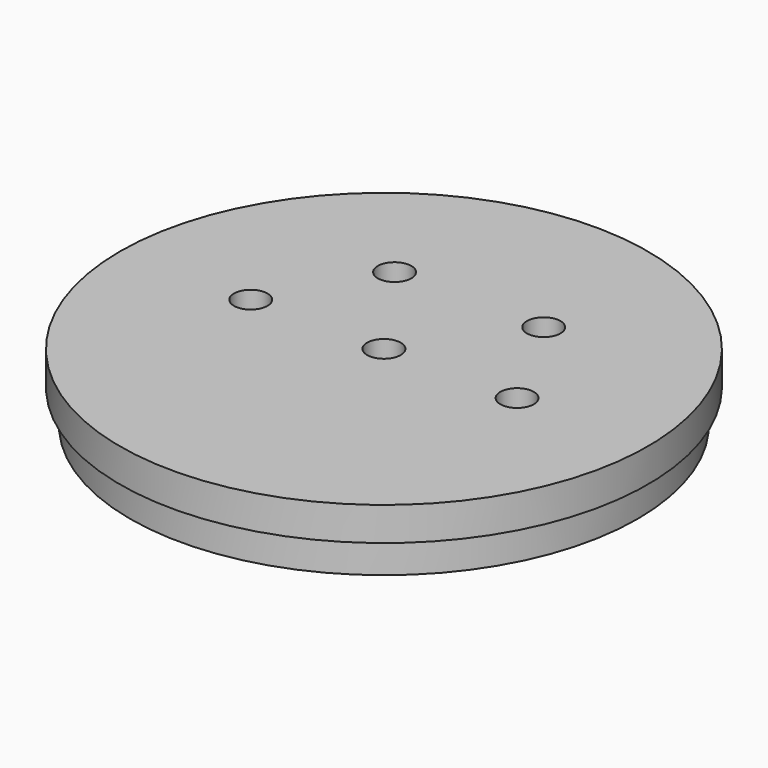
from build123d import *

# Parameters (mm, degrees)
F3_D = 6.3
F5_D = 6.3


with BuildPart() as f1:
    # F0 (on Front) → F1 (revolve)
    with BuildSketch(Plane.XZ):
        Polygon((-47.65, 6.3), (-47.65, 0), (-3.15, 0), (-3.15, 12.6), (-49.55, 12.6), (-49.55, 6.3), align=None)
    revolve(axis=Axis((0, 0, -5.1516543608), (0, 0, -1)))

    # F3 (through all)
    with Locations(Plane(origin=(0, 0, 0), x_dir=(1, 0, 0), z_dir=(0, 0, -1))):
        with Locations((25, 0), (-25, 0)):
            Hole(F3_D / 2)

    # F5 (through all)
    with Locations(Plane(origin=(0, 0, 0), x_dir=(1, 0, 0), z_dir=(0, 0, -1))):
        with Locations((-14, -20), (14, -20)):
            Hole(F5_D / 2)


solid = f1.part
